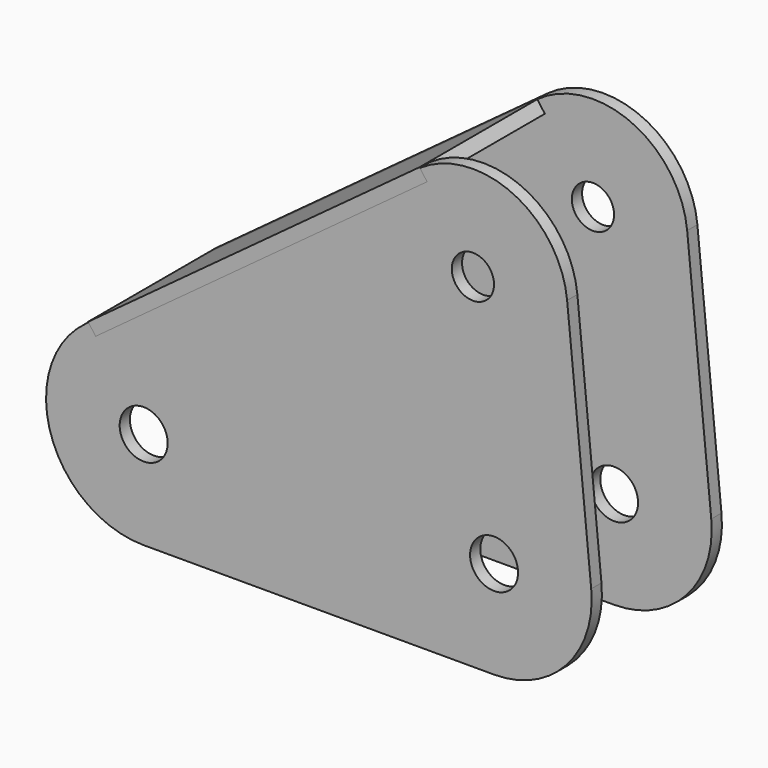
from build123d import *

# Parameters (mm, degrees)
F0_R     = 7.5
F0_R_2   = 6.6
F1_DEPTH = 4
F2_W     = 128.572716
F2_H     = 46
F3_DEPTH = 4
F4_R     = 7.5
F4_R_2   = 6.6
F5_DEPTH = 4


with BuildPart() as f1:
    # F0 (on Front) → F1 (new body)
    with BuildSketch(Plane.XZ):
        with BuildLine():
            ThreePointArc((11.842165, 55.067126), (0.938336, 20.988095), (29.917185, 0))
            Line((29.917185, 0), (139.417185, 0))
            ThreePointArc((139.417185, 0), (162.009712, 10.010302), (169.772205, 33.470313))
            Line((169.772205, 33.470313), (162.247026, 110.373628))
            ThreePointArc((162.247026, 110.373628), (144.901939, 134.443184), (115.404857, 131.262349))
            Line((115.404857, 131.262349), (11.842165, 55.067126))
        make_face()
        with Locations((29.917185, 30.5)):
            Circle(F0_R, mode=Mode.SUBTRACT)
        with Locations((139.417185, 30.5)):
            Circle(F0_R, mode=Mode.SUBTRACT)
        with Locations((132.804856, 107.31593)):
            Circle(F0_R_2, mode=Mode.SUBTRACT)
    extrude(amount=F1_DEPTH)

    # F2 (on face) → F3 (join)
    with BuildSketch(Plane(origin=(-22.127081, 0, 30.07459), x_dir=(0.80548, 0, 0.592624), z_dir=(-0.592624, 0, 0.80548))):
        with Locations((106.459057, -27)):
            Rectangle(F2_W, F2_H)
    extrude(amount=-F3_DEPTH)


with BuildPart() as f5:
    # F4 (on face) → F5 (new body)
    with BuildSketch(Plane.XZ.offset(50)):
        with BuildLine():
            ThreePointArc((11.135599, 54.327573), (0.23177, 20.248542), (29.210619, -0.739553))
            Line((29.210619, -0.739553), (138.710619, -0.739553))
            ThreePointArc((138.710619, -0.739553), (161.303146, 9.270749), (169.065639, 32.73076))
            Line((169.065639, 32.73076), (161.54046, 109.634076))
            ThreePointArc((161.54046, 109.634076), (144.65372, 133.494526), (115.519929, 131.105947))
            Line((115.519929, 131.105947), (117.775352, 128.040431))
            Line((117.775352, 128.040431), (14.21266, 51.845208))
            Line((14.21266, 51.845208), (11.94704, 54.924583))
            Line((11.94704, 54.924583), (11.135599, 54.327573))
        make_face()
        with Locations((29.210619, 29.760447)):
            Circle(F4_R, mode=Mode.SUBTRACT)
        with Locations((138.710619, 29.760447)):
            Circle(F4_R, mode=Mode.SUBTRACT)
        with Locations((132.09829, 106.576377)):
            Circle(F4_R_2, mode=Mode.SUBTRACT)
    extrude(amount=-F5_DEPTH)


solid = Compound([f1.part, f5.part])
